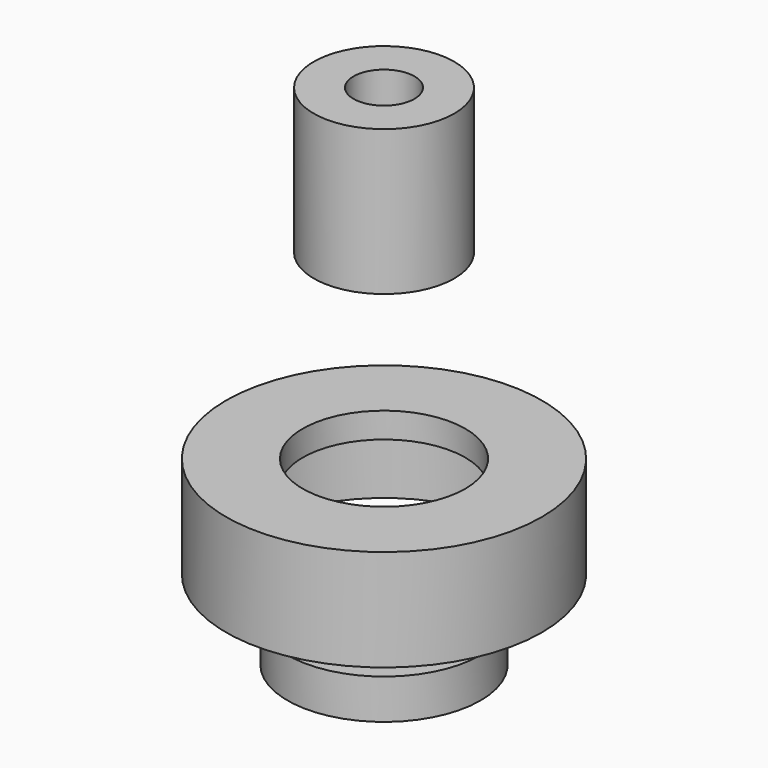
from build123d import *

# Parameters (mm, degrees)
F4_R      = 13.3
F4_R_2    = 11.2
F4_R_3    = 7
F5_DEPTH  = 2
F6_DEPTH  = 5.5
F8_R      = 13.3
F8_R_2    = 11.2
F9_DEPTH  = 3.5
F8_R_3    = 17.75
F10_DEPTH = 2
F8_R_4    = 21.75
F11_DEPTH = 14
F13_R     = 9.6787585802
F13_R_2   = 4.2
F14_DEPTH = 20
F15_DEPTH = 3.2


with BuildPart() as f5:
    # F4 (on Top) → F5 (new body)
    with BuildSketch(Plane.XY):
        Circle(F4_R)
        Circle(F4_R_2, mode=Mode.SUBTRACT)
        Circle(F4_R_2)
        Circle(F4_R_3, mode=Mode.SUBTRACT)
    extrude(amount=F5_DEPTH)

    # F4 (on Top) → F6 (join)
    with BuildSketch(Plane.XY):
        Circle(F4_R)
        Circle(F4_R_2, mode=Mode.SUBTRACT)
    extrude(amount=F6_DEPTH)


with BuildPart() as f9:
    # F8 (on offset) → F9 (new body)
    with BuildSketch(Plane.XY.offset(25)):
        Circle(F8_R)
        Circle(F8_R_2, mode=Mode.SUBTRACT)
    extrude(amount=-F9_DEPTH)

    # F8 (on offset) → F10 (join)
    with BuildSketch(Plane.XY.offset(25)):
        Circle(F8_R_3)
        Circle(F8_R, mode=Mode.SUBTRACT)
    extrude(amount=-F10_DEPTH)

    # F8 (on offset) → F11 (join)
    with BuildSketch(Plane.XY.offset(25)):
        Circle(F8_R_4)
        Circle(F8_R_3, mode=Mode.SUBTRACT)
    extrude(amount=-F11_DEPTH)


with BuildPart() as f14:
    # F13 (on offset) → F14 (new body)
    with BuildSketch(Plane.XY.offset(50)):
        Circle(F13_R)
        Polygon((0, 7.6787585802), (6.65, 3.8393792901), (6.65, -3.8393792901), (0, -7.6787585802), (-6.65, -3.8393792901), (-6.65, 3.8393792901), align=None, mode=Mode.SUBTRACT)
        Polygon((6.65, -3.8393792901), (6.65, 3.8393792901), (0, 7.6787585802), (-6.65, 3.8393792901), (-6.65, -3.8393792901), (0, -7.6787585802), align=None)
        Circle(F13_R_2, mode=Mode.SUBTRACT)
    extrude(amount=F14_DEPTH)

    # F13 (on offset) → F15 (cut)
    with BuildSketch(Plane.XY.offset(50)):
        Polygon((6.65, -3.8393792901), (6.65, 3.8393792901), (0, 7.6787585802), (-6.65, 3.8393792901), (-6.65, -3.8393792901), (0, -7.6787585802), align=None)
        Circle(F13_R_2, mode=Mode.SUBTRACT)
    extrude(amount=F15_DEPTH, mode=Mode.SUBTRACT)


solid = Compound([f5.part, f9.part, f14.part])
